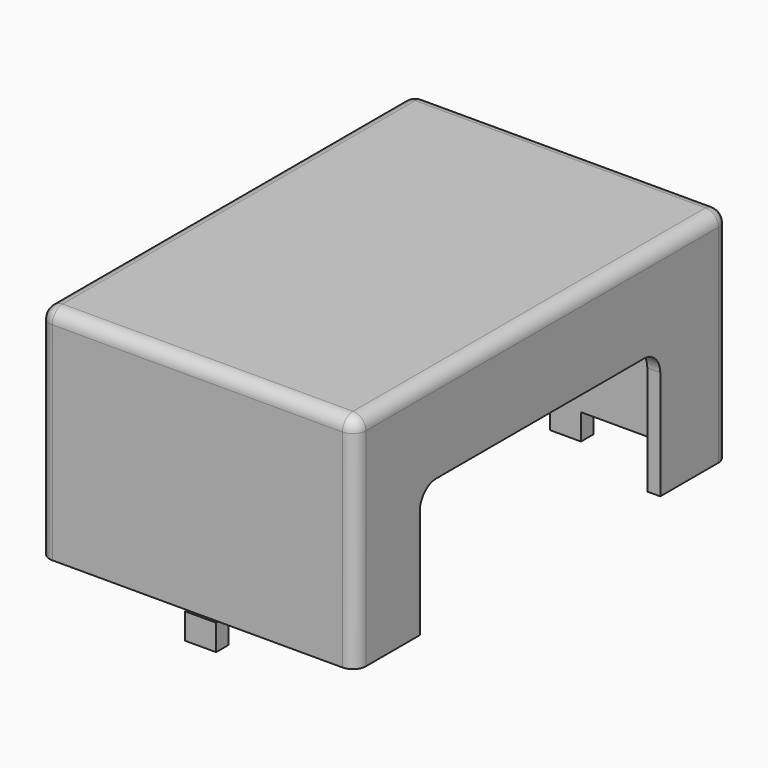
from build123d import *

# Parameters (mm, degrees)
BOX038_W     = 10
BOX038_H     = 58
BOX038_DEPTH = 25
FILLET007_R  = 4
BOX035_W     = 10
BOX035_H     = 58
BOX035_DEPTH = 25
BOX034_W     = 56
BOX034_H     = 85
BOX034_DEPTH = 40
THICKNESS_T  = 2.5
SKETCH_W     = 6
SKETCH_H     = 3
PAD006_DEPTH = 5


with BuildPart() as fillet007:
    # Box038 → Box038 (new body)
    with BuildSketch(Plane(origin=(23, -30, 25), x_dir=(1, 0, 0), z_dir=(0, 0, 1))):
        with Locations((5, 29)):
            Rectangle(BOX038_W, BOX038_H)
    extrude(amount=BOX038_DEPTH)

    # Fillet007
    fillet007_edges = [fillet007.edges().sort_by_distance(p)[0] for p in [
        (28, -30, 50),
        (28, 28, 50),
    ]]
    fillet(fillet007_edges, radius=FILLET007_R)


with BuildPart() as cubo029:
    # Box035 → Box035 (new body)
    with BuildSketch(Plane(origin=(-36, -30, 25), x_dir=(1, 0, 0), z_dir=(0, 0, 1))):
        with Locations((5, 29)):
            Rectangle(BOX035_W, BOX035_H)
    extrude(amount=BOX035_DEPTH)


with BuildPart() as obj1:
    # Box034 → Box034 (new body)
    with BuildSketch(Plane(origin=(-31, -46, 38), x_dir=(1, 0, 0), z_dir=(0, 0, 1))):
        with Locations((28, 42.5)):
            Rectangle(BOX034_W, BOX034_H)
    extrude(amount=BOX034_DEPTH)

    # Thickness
    thickness_openings = [obj1.faces().sort_by_distance(p)[0] for p in [
        (-3, -3.5, 38),
    ]]
    offset(amount=THICKNESS_T, openings=thickness_openings)


with BuildPart() as obj1_1:
    # Thickness placement: moved
    add(obj1.part.moved(Location((2, 2, -13))))

    # Cut045: cut Cubo029
    add(cubo029.part, mode=Mode.SUBTRACT)


with BuildPart() as obj1_2:
    # Cut045 placement: moved
    add(obj1_1.part.moved(Location((1, 1, 0))))

    # Sketch → Pad006 (new body)
    with BuildSketch(Plane(origin=(1, 1, 25), x_dir=(1, 0, 0), z_dir=(0, 0, -1))):
        with Locations((0, 45.5)):
            Rectangle(SKETCH_W, SKETCH_H)
        with Locations((0, -42.5)):
            Rectangle(SKETCH_W, SKETCH_H)
    extrude(amount=PAD006_DEPTH)

    # Cut048: cut Fillet007
    add(fillet007.part, mode=Mode.SUBTRACT)


solid = obj1_2.part
